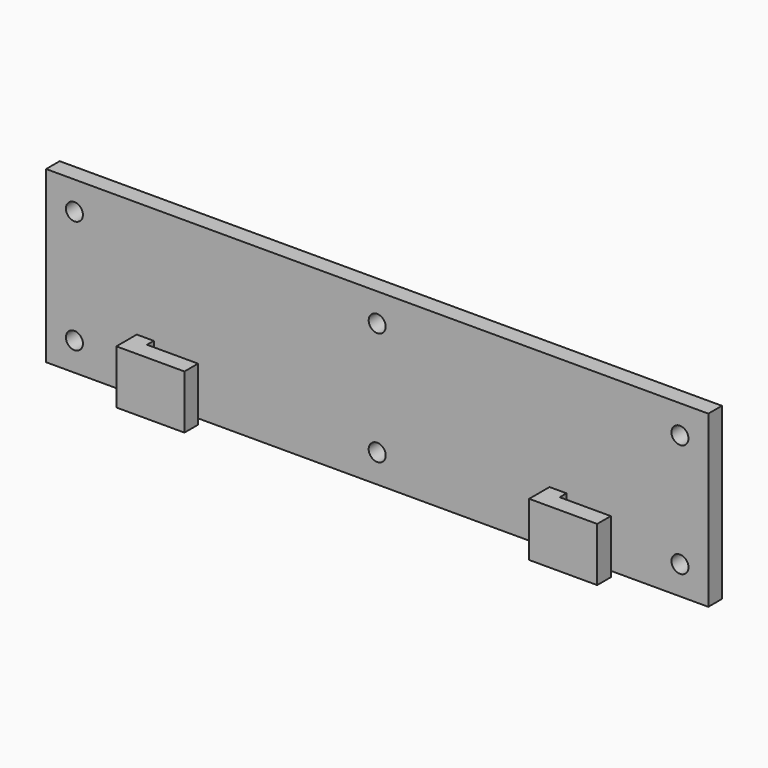
from build123d import *

# Parameters (mm, degrees)
F1_DEPTH = 9.5
F2_W     = 116.8
F2_H     = 3
F3_DEPTH = 30
F4_R     = 1.5
F5_DEPTH = 25


with BuildPart() as f1:
    # F0 (on Top) → F1 (new body)
    with BuildSketch(Plane.XY):
        Polygon((0, 0), (-24.4, 0), (-36.4, 0), (-52.4, 0), (-52.4, -3), (-36.4, -3), (-36.4, -7.5), (-24.4, -7.5), (-24.4, -4.5), (-33.4, -4.5), (-33.4, -3), (-24.4, -3), (0, -3), align=None)
        Polygon((36.4, 0), (0, 0), (0, -3), (36.4, -3), (36.4, -7.5), (48.4, -7.5), (48.4, -4.5), (39.4, -4.5), (39.4, -3), (48.4, -3), (64.4, -3), (64.4, 0), (48.4, 0), align=None)
    extrude(amount=F1_DEPTH)

    # F2 (on face) → F3 (join)
    with BuildSketch(Plane(origin=(0, 0, 0), x_dir=(1, 0, 0), z_dir=(0, 0, -1))):
        with Locations((6, 1.5)):
            Rectangle(F2_W, F2_H)
    extrude(amount=-F3_DEPTH)

    # F4 (on face) → F5 (cut)
    with BuildSketch(Plane(origin=(0, 0, 0), x_dir=(-1, 0, 0), z_dir=(0, 1, 0))):
        with Locations((47.4, 25)):
            Circle(F4_R)
        with Locations((-59.4, 25)):
            Circle(F4_R)
        with Locations((-59.4, 5)):
            Circle(F4_R)
        with Locations((47.4, 5)):
            Circle(F4_R)
        with Locations((-6, 25)):
            Circle(F4_R)
        with Locations((-6, 5)):
            Circle(F4_R)
    extrude(amount=-F5_DEPTH, mode=Mode.SUBTRACT)


solid = f1.part
